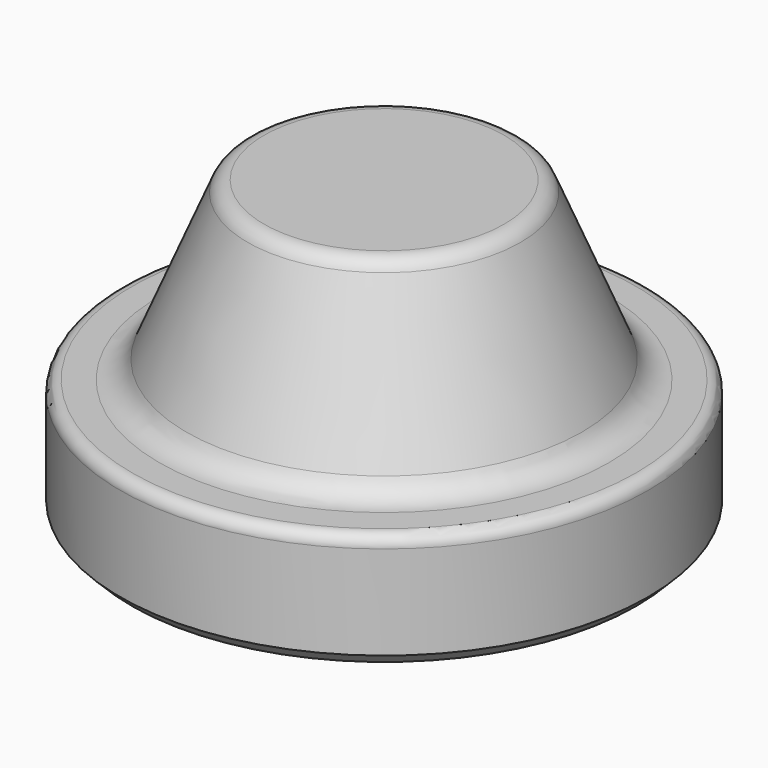
from build123d import *

# Parameters (mm, degrees)
F2_SIZE = 2


with BuildPart() as f1:
    # F0 (on Front) → F1 (revolve)
    with BuildSketch(Plane.XZ):
        with BuildLine():
            Line((0, 50), (0, 0))
            Line((0, 0), (45, 0))
            Line((45, 0), (45, 18))
            ThreePointArc((45, 18), (44.414214, 19.414214), (43, 20))
            Line((43, 20), (38.333333, 20))
            ThreePointArc((38.333333, 20), (35.559832, 20.839749), (33.717949, 23.076923))
            Line((33.717949, 23.076923), (23.269231, 48.153846))
            ThreePointArc((23.269231, 48.153846), (22.164101, 49.496151), (20.5, 50))
            Line((20.5, 50), (0, 50))
        make_face()
    revolve(axis=Axis((0, 0, 19.521503), (0, 0, -1)))

    # F2
    f2_edges = [f1.edges().sort_by_distance(p)[0] for p in [
        (-45, 0, 0),
    ]]
    chamfer(f2_edges, length=F2_SIZE)


solid = f1.part
